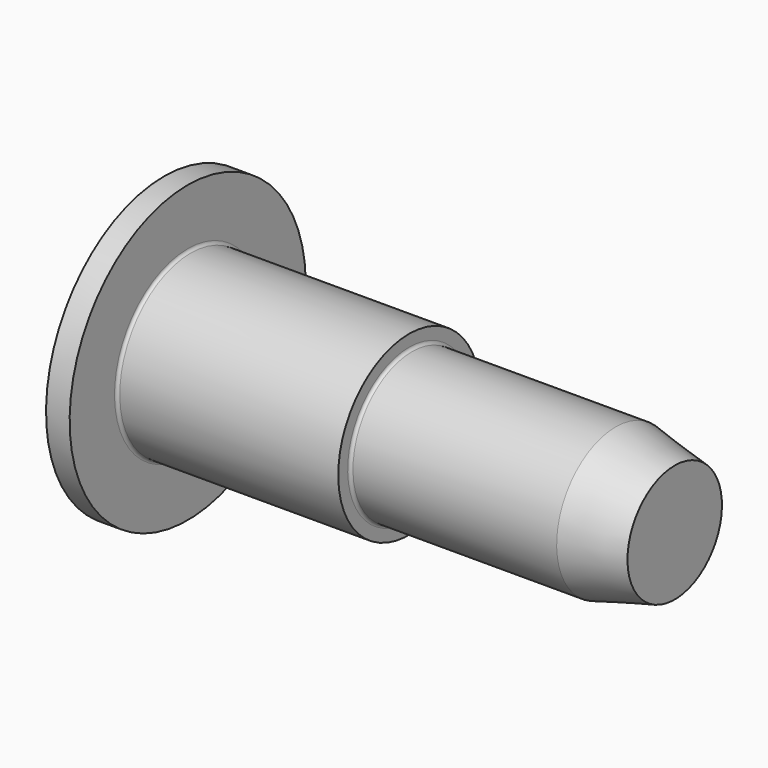
from build123d import *


with BuildPart() as f1:
    # F0 (on Front) → F1 (revolve)
    with BuildSketch(Plane.XZ):
        with BuildLine():
            Line((0, 5), (0, 0))
            Line((0, 0), (17.3, 0))
            Line((17.3, 0), (17.3, 2))
            Line((17.3, 2), (15.3, 2.5))
            Line((15.3, 2.5), (8.4, 2.5))
            ThreePointArc((8.4, 2.5), (8.329289, 2.529289), (8.3, 2.6))
            Line((8.3, 2.6), (8.3, 3))
            Line((8.3, 3), (0.9, 3))
            ThreePointArc((0.9, 3), (0.829289, 3.029289), (0.8, 3.1))
            Line((0.8, 3.1), (0.8, 5))
            Line((0.8, 5), (0, 5))
        make_face()
    revolve(axis=Axis((8.65, 0, 0), (-1, 0, 0)))


solid = f1.part
